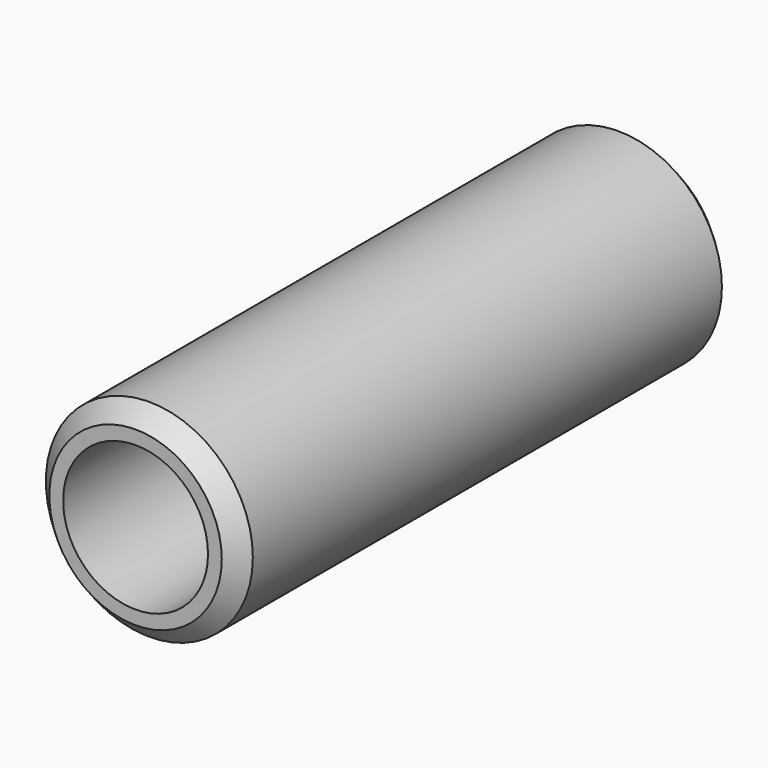
from build123d import *

# Parameters (mm, degrees)
F0_R     = 3
F1_DEPTH = 18
F2_R     = 2.1
F3_DEPTH = 10
F4_R     = 1.4
F5_DEPTH = 18.001
F6_SIZE  = 0.5
F7_SIZE  = 0.5


with BuildPart() as f1:
    # F0 (on Front) → F1 (new body)
    with BuildSketch(Plane.XZ):
        Circle(F0_R)
    extrude(amount=-F1_DEPTH)

    # F2 (on face) → F3 (cut)
    with BuildSketch(Plane.XZ):
        Circle(F2_R)
    extrude(amount=-F3_DEPTH, mode=Mode.SUBTRACT)

    # F4 (on Front) → F5 (cut, through all)
    with BuildSketch(Plane.XZ):
        Circle(F4_R)
    extrude(amount=-F5_DEPTH, mode=Mode.SUBTRACT)

    # F6
    f6_edges = [f1.edges().sort_by_distance(p)[0] for p in [
        (-3, 0, 0),
    ]]
    chamfer(f6_edges, length=F6_SIZE)

    # F7
    f7_edges = [f1.edges().sort_by_distance(p)[0] for p in [
        (-3, 18, 0),
    ]]
    chamfer(f7_edges, length=F7_SIZE)


solid = f1.part
